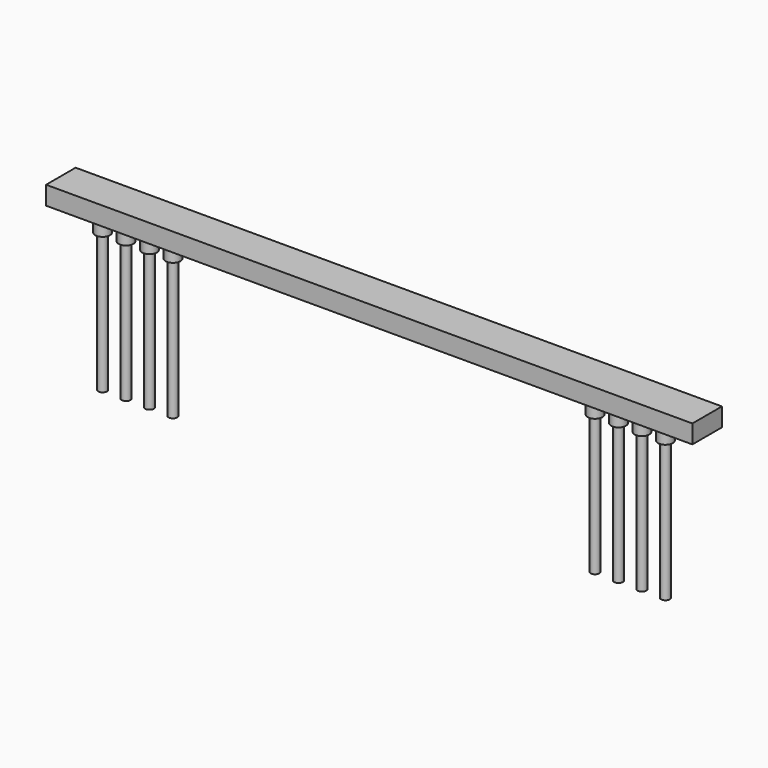
from build123d import *

# Parameters (mm, degrees)
SKETCH_W     = 70
SKETCH_H     = 4
PAD_DEPTH    = 2
SKETCH001_R  = 0.8
PAD001_DEPTH = 1.9
SKETCH002_R  = 0.475
PAD002_DEPTH = 15
CHAMFER_SIZE = 0.2


with BuildPart() as part:
    # Sketch → Pad (new body)
    with BuildSketch(Plane.XY):
        with Locations((0, -6.25)):
            Rectangle(SKETCH_W, SKETCH_H)
    extrude(amount=PAD_DEPTH)

    # Sketch001 (on Face5 of Pad) → Pad001 (join)
    with BuildSketch(Plane(origin=(0, 0, 0), x_dir=(1, 0, 0), z_dir=(0, 0, -1))):
        with Locations((-30.48, 6.25)):
            Circle(SKETCH001_R)
        with Locations((-22.86, 6.25)):
            Circle(SKETCH001_R)
        with Locations((-25.4, 6.25)):
            Circle(SKETCH001_R)
        with Locations((-27.94, 6.25)):
            Circle(SKETCH001_R)
        with Locations((22.86, 6.25)):
            Circle(SKETCH001_R)
        with Locations((25.4, 6.25)):
            Circle(SKETCH001_R)
        with Locations((27.94, 6.25)):
            Circle(SKETCH001_R)
        with Locations((30.48, 6.25)):
            Circle(SKETCH001_R)
    extrude(amount=PAD001_DEPTH)

    # Sketch002 (on Face17 of Pad001) → Pad002 (join)
    with BuildSketch(Plane(origin=(0, 0, -1.9), x_dir=(1, 0, 0), z_dir=(0, 0, -1))):
        with Locations((-30.48, 6.25)):
            Circle(SKETCH002_R)
        with Locations((-27.94, 6.25)):
            Circle(SKETCH002_R)
        with Locations((-25.4, 6.25)):
            Circle(SKETCH002_R)
        with Locations((-22.86, 6.25)):
            Circle(SKETCH002_R)
        with Locations((22.86, 6.25)):
            Circle(SKETCH002_R)
        with Locations((27.94, 6.25)):
            Circle(SKETCH002_R)
        with Locations((25.4, 6.25)):
            Circle(SKETCH002_R)
        with Locations((30.48, 6.25)):
            Circle(SKETCH002_R)
    extrude(amount=PAD002_DEPTH)

    # Chamfer
    chamfer_edges = [part.edges().sort_by_distance(p)[0] for p in [
        (-23.66, -6.25, 0),
        (-26.2, -6.25, 0),
        (-28.74, -6.25, 0),
        (-31.28, -6.25, 0),
        (22.06, -6.25, 0),
        (27.14, -6.25, 0),
        (24.6, -6.25, 0),
        (29.68, -6.25, 0),
    ]]
    chamfer(chamfer_edges, length=CHAMFER_SIZE)


solid = part.part
